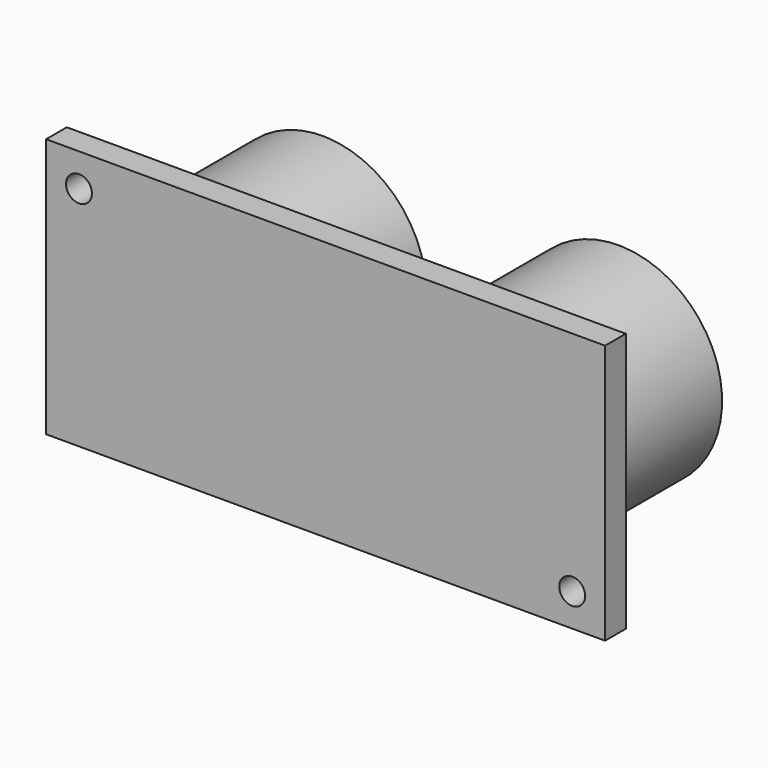
from build123d import *

# Parameters (mm, degrees)
F0_W     = 43.18
F0_H     = 20.066
F1_DEPTH = 2
F3_D     = 2
F4_R     = 8
F5_DEPTH = 12


with BuildPart() as f1:
    # F0 (on Front) → F1 (new body)
    with BuildSketch(Plane.XZ):
        Rectangle(F0_W, F0_H)
    extrude(amount=F1_DEPTH)

    # F3 (through all)
    with Locations(Plane.XZ.offset(2)):
        with Locations((-19.05, 7.493), (19.05, -7.493)):
            Hole(F3_D / 2)

    # F4 (on face) → F5 (join)
    with BuildSketch(Plane(origin=(0, 0, 0), x_dir=(-1, 0, 0), z_dir=(0, 1, 0))):
        with Locations((11.43, -0.127)):
            Circle(F4_R)
        with Locations((-11.43, -0.127)):
            Circle(F4_R)
    extrude(amount=F5_DEPTH)


solid = f1.part
